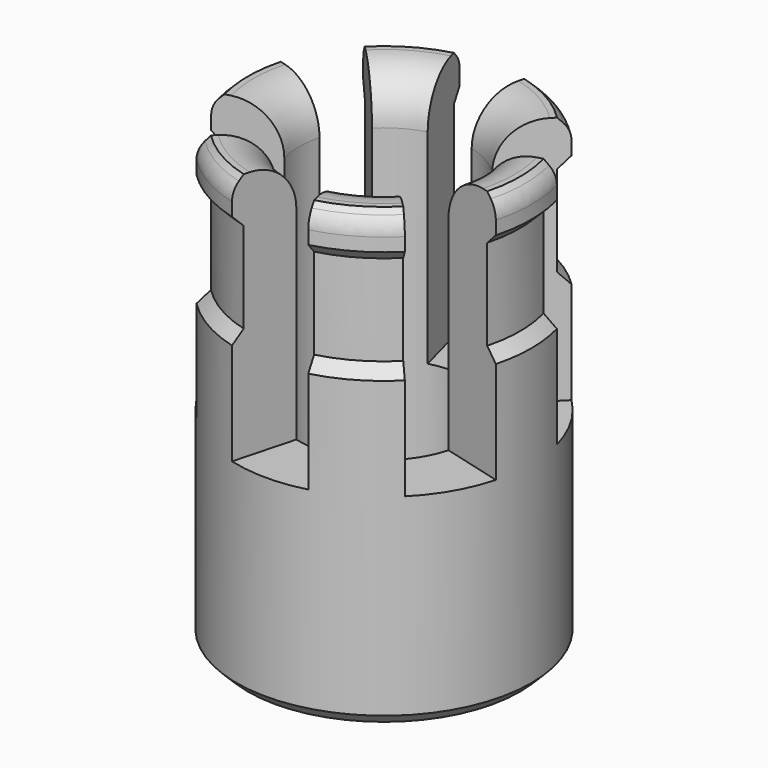
from build123d import *

# Parameters (mm, degrees)
CYLINDER001_R      = 3.75
CYLINDER001_DEPTH  = 30
CYLINDER002_R      = 6
CYLINDER002_DEPTH  = 6
CYLINDER003_R      = 8
CYLINDER003_DEPTH  = 6
CHAMFER_SIZE       = 1
CYLINDER_R         = 6.5
CYLINDER_DEPTH     = 20
FILLET_R           = 2
CHAMFER001_SIZE    = 1
FILLET001_R        = 1
POCKET_DEPTH       = 11
POLARPATTERN_COUNT = 6
CHAMFER002_SIZE    = 0.5
FILLET002_R        = 1
CHAMFER003_SIZE    = 0.5


with BuildPart() as cilindro001:
    # Cylinder001 → Cylinder001 (new body)
    with BuildSketch(Plane.XY):
        Circle(CYLINDER001_R)
    extrude(amount=CYLINDER001_DEPTH)


with BuildPart() as cilindro002:
    # Cylinder002 → Cylinder002 (new body)
    with BuildSketch(Plane.XY):
        Circle(CYLINDER002_R)
    extrude(amount=CYLINDER002_DEPTH)


with BuildPart() as chamfer_body:
    # Cylinder003 → Cylinder003 (new body)
    with BuildSketch(Plane.XY):
        Circle(CYLINDER003_R)
    extrude(amount=CYLINDER003_DEPTH)

    # Cut: cut Cilindro002
    add(cilindro002.part, mode=Mode.SUBTRACT)


with BuildPart() as chamfer_body_1:
    # Cut placement: moved
    add(chamfer_body.part.moved(Location((0, 0, 13))))

    # Chamfer
    chamfer_edges = [chamfer_body_1.edges().sort_by_distance(p)[0] for p in [
        (-6, 0, 19),
        (-6, 0, 13),
    ]]
    chamfer(chamfer_edges, length=CHAMFER_SIZE)


with BuildPart() as chamfer003:
    # Cylinder → Cylinder (new body)
    with BuildSketch(Plane.XY):
        Circle(CYLINDER_R)
    extrude(amount=CYLINDER_DEPTH)

    # Cut001: cut Chamfer body
    add(chamfer_body_1.part, mode=Mode.SUBTRACT)

    # Cut002: cut Cilindro001
    add(cilindro001.part, mode=Mode.SUBTRACT)

    # Fillet
    fillet_edges = [chamfer003.edges().sort_by_distance(p)[0] for p in [
        (-3.75, 0, 20),
    ]]
    fillet(fillet_edges, radius=FILLET_R)

    # Chamfer001
    chamfer001_edges = [chamfer003.edges().sort_by_distance(p)[0] for p in [
        (-3.75, 0, 0),
    ]]
    chamfer(chamfer001_edges, length=CHAMFER001_SIZE)

    # Fillet001
    fillet001_edges = [chamfer003.edges().sort_by_distance(p)[0] for p in [
        (-3.75, 0, 1),
    ]]
    fillet(fillet001_edges, radius=FILLET001_R)

    # Sketch → Pocket (cut)
    with BuildSketch(Plane.XY.offset(20)):
        Polygon((0, 0), (-1.811733, 6.761481), (1.811733, 6.761481), align=None)
    pocket = extrude(amount=-POCKET_DEPTH, mode=Mode.SUBTRACT)

    # PolarPattern: Pocket ×6 about axis
    polarpattern_axis = Axis((0, 0, 20), (0, 0, 1))
    for i in range(1, POLARPATTERN_COUNT):
        add(pocket.rotate(polarpattern_axis, i * 360 / POLARPATTERN_COUNT), mode=Mode.SUBTRACT)

    # Chamfer002
    chamfer002_edges = [chamfer003.edges().sort_by_distance(p)[0] for p in [
        (3.25, -5.629165, 20),
        (-3.25, -5.629165, 20),
        (6.444392, 0.84842, 20),
        (6.444392, -0.84842, 20),
        (3.25, 5.629165, 20),
        (-3.25, 5.629165, 20),
        (-6.5, 0, 20),
    ]]
    chamfer(chamfer002_edges, length=CHAMFER002_SIZE)

    # Fillet002
    fillet002_edges = [chamfer003.edges().sort_by_distance(p)[0] for p in [
        (6.444392, 0.84842, 19.5),
        (6.444392, -0.84842, 19.5),
        (3.25, -5.629165, 19.5),
        (-3.25, -5.629165, 19.5),
        (3.25, 5.629165, 19.5),
        (-3.25, 5.629165, 19.5),
        (-6.5, 0, 19.5),
    ]]
    fillet(fillet002_edges, radius=FILLET002_R)

    # Chamfer003
    chamfer003_edges = [chamfer003.edges().sort_by_distance(p)[0] for p in [
        (-6.5, 0, 0),
    ]]
    chamfer(chamfer003_edges, length=CHAMFER003_SIZE)


solid = chamfer003.part
